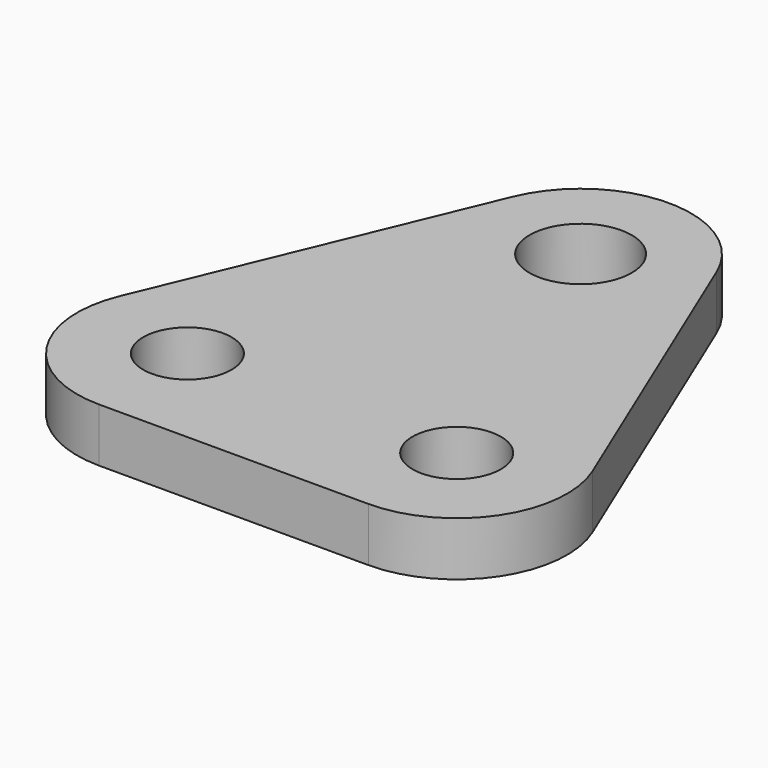
from build123d import *

# Parameters (mm, degrees)
SKETCH_R      = 1.64
SKETCH_R_2    = 1.9
PAD_DEPTH     = 2
SKETCH001_R   = 2.5
SKETCH001_R_2 = 1.64
PAD001_DEPTH  = 0.5


with BuildPart() as part:
    # Sketch → Pad (new body)
    with BuildSketch(Plane.XY):
        with BuildLine():
            ThreePointArc((3.784615, 1.576923), (0, 4.1), (-3.784615, 1.576923))
            Line((-3.784615, 1.576923), (-8.784615, -10.423077))
            ThreePointArc((-8.784615, -10.423077), (-8.41141, -14.274265), (-5.000015, -16.1))
            Line((-5.000015, -16.1), (5, -16.1))
            ThreePointArc((5, -16.1), (8.411406, -14.274271), (8.784615, -10.423077))
            Line((8.784615, -10.423077), (3.784615, 1.576923))
        make_face()
        with Locations((-5, -12)):
            Circle(SKETCH_R, mode=Mode.SUBTRACT)
        with Locations((5, -12)):
            Circle(SKETCH_R, mode=Mode.SUBTRACT)
        Circle(SKETCH_R_2, mode=Mode.SUBTRACT)
    extrude(amount=-PAD_DEPTH)

    # Sketch001 (on Face11 of Pad) → Pad001 (join)
    with BuildSketch(Plane(origin=(0, 0, -2), x_dir=(1, 0, 0), z_dir=(0, 0, -1))):
        with Locations((-5, 12)):
            Circle(SKETCH001_R)
        with Locations((-5, 12)):
            Circle(SKETCH001_R_2, mode=Mode.SUBTRACT)
        with Locations((5, 12)):
            Circle(SKETCH001_R)
        with Locations((5, 12)):
            Circle(SKETCH001_R_2, mode=Mode.SUBTRACT)
    extrude(amount=PAD001_DEPTH)


solid = part.part
